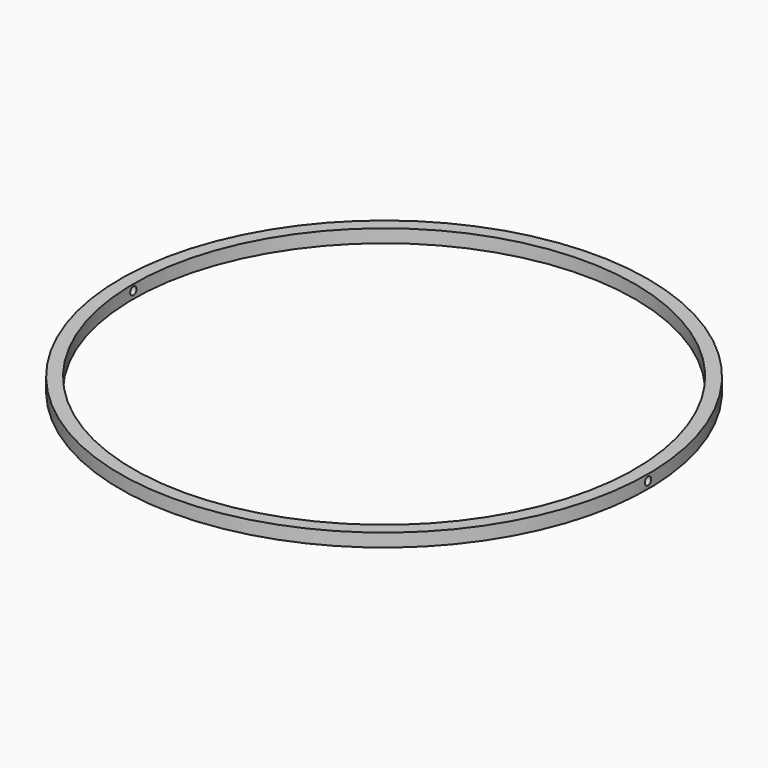
from build123d import *

# Parameters (mm, degrees)
F0_W     = 5
F0_H     = 5
F2_D     = 3
F2_DEPTH = 100.001
F3_D     = 3


with BuildPart() as f1:
    # F0 (on Right) → F1 (revolve)
    with BuildSketch(Plane.YZ):
        with Locations((-97.5, 2.3040431552)):
            Rectangle(F0_W, F0_H)
    revolve(axis=Axis((0, 0, 1.25), (0, 0, -1)))

    # F2 (through all, one way)
    with BuildSketch(Plane.YZ):
        with Locations((0, 2.5)):
            Circle(F2_D / 2)
    extrude(amount=-F2_DEPTH, mode=Mode.SUBTRACT)

    # F3 (through all)
    with Locations(Plane(origin=(0, 0, 0), x_dir=(0, 1, 0), z_dir=(-1, 0, 0))):
        with Locations((0, -2.5)):
            Hole(F3_D / 2)


solid = f1.part
